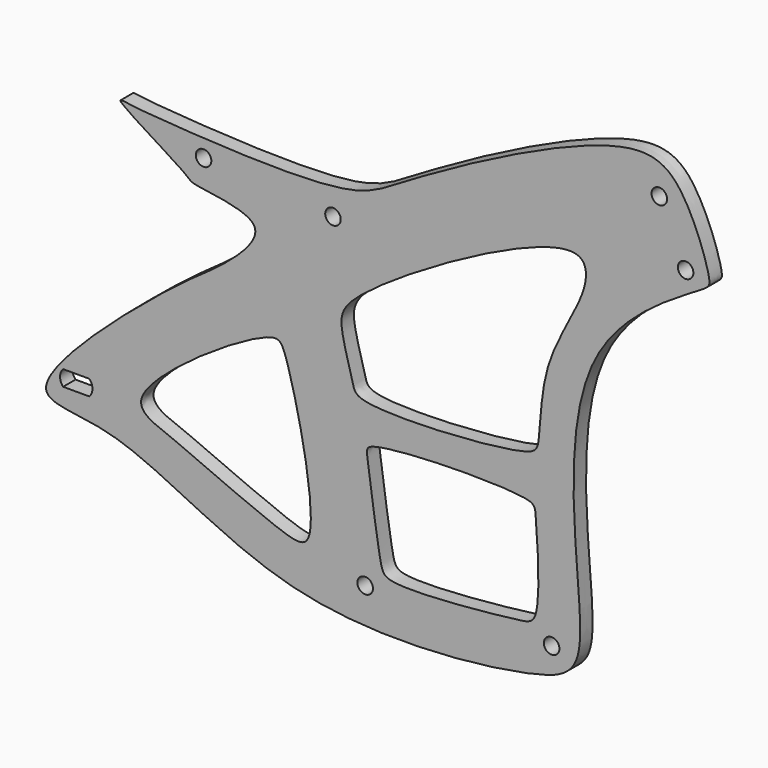
from build123d import *

# Parameters (mm, degrees)
F1_R     = 12.5
F2_DEPTH = 25


with BuildPart() as f2:
    # F1 (on Front) → F2 (new body)
    with BuildSketch(Plane.XZ):
        with BuildLine():
            add(Edge.make_bspline(
                [(-1371.9980716705, 886.4457607269), (-1392.653957445, 916.1033848298), (-1464.0667900313, 950.9482048559), (-1812.8932452518, 764.3646101194), (-1896.5860467802, 700.7433831859), (-2158.0004975891, 713.0600240908), (-2251.484814516, 720.3502820828), (-2293.9948815022, 727.956442062), (-2160.6723513816, 651.3588183992), (-2162.1496359375, 640.4543010837), (-2016.2207019242, 631.3127735069), (-2111.940512186, 537.1055042483), (-2177.6995354045, 501.5849193393), (-2472.3899192561, 247.4776096606), (-2260.6497543424, 265.873673142), (-2010.3665191234, 73.9979514065), (-1622.3940752802, 116.5657589018), (-1544.3362574694, 147.4707782041), (-1521.5919179425, 227.301972126), (-1595.9956851389, 635.8621978573), (-1330.6322746634, 757.1444590947), (-1323.2112479294, 777.8691215697), (-1349.0883350374, 853.5520681117), (-1371.9980716705, 886.4457607269)],
                knots=[0, 0, 0, 0, 0.0397656776, 0.1183212485, 0.1636663724, 0.2279070297, 0.2687660008, 0.2829436368, 0.3283687251, 0.3465637133, 0.3867828718, 0.4221940221, 0.4656385304, 0.5349593194, 0.5758864442, 0.6502695326, 0.7289837699, 0.7628035112, 0.7966417222, 0.8768378755, 0.9392773468, 0.9558953215, 1, 1, 1, 1], degree=3))
        make_face()
        with BuildLine():
            Line((-2365.9245776832, 312.5), (-2323.6282062828, 312.5))
            ThreePointArc((-2323.6282062828, 312.5), (-2318.7663879798, 300), (-2323.6282062828, 287.5))
            Line((-2323.6282062828, 287.5), (-2365.9245776832, 287.5))
            ThreePointArc((-2365.9245776832, 287.5), (-2370.7863959862, 300), (-2365.9245776832, 312.5))
        make_face(mode=Mode.SUBTRACT)
        with BuildLine():
            add(Edge.make_bspline(
                [(-2182.0895671844, 268.0950462818), (-2200.8023086205, 275.7592823317), (-2216.8910046537, 280.3595011077), (-2279.5666232427, 319.4686654424), (-2030.0235551893, 484.9613072764), (-2003.1698827631, 450.8457349337), (-1943.4709938525, 182.7479105147), (-2017.9897152424, 194.0894947076), (-2142.7916918628, 251.999692549), (-2182.0895671844, 268.0950462818)],
                knots=[0, 0, 0, 0, 0.0927703814, 0.1767432106, 0.4056156368, 0.4881111138, 0.7125361205, 0.805176655, 1, 1, 1, 1], degree=3))
        make_face(mode=Mode.SUBTRACT)
        with Locations((-1880.204897692, 164.0753404029)):
            Circle(F1_R, mode=Mode.SUBTRACT)
        with BuildLine():
            add(Edge.make_bspline(
                [(-1876.5929937363, 345.7181751728), (-1878.1228636134, 356.9108916955), (-1880.6444941552, 375.5785869413), (-1609.4259518722, 381.1525132306), (-1605.5448436488, 353.7872239445), (-1595.2625075481, 201.4078175406), (-1635.1937770468, 194.2816989644), (-1845.1396322224, 172.7473653213), (-1857.2006594656, 204.3289773047), (-1872.6101047314, 316.5788684652), (-1876.5929937363, 345.7181751728)],
                knots=[0, 0, 0, 0, 0.060948941, 0.2719500339, 0.3395811044, 0.4966485426, 0.5783495362, 0.7676111106, 0.8413245004, 1, 1, 1, 1], degree=3))
        make_face(mode=Mode.SUBTRACT)
        with Locations((-1580.4501771927, 176.2041300535)):
            Circle(F1_R, mode=Mode.SUBTRACT)
        with Locations((-2140.0866508484, 684.7329139709)):
            Circle(F1_R, mode=Mode.SUBTRACT)
        with Locations((-1931.9874048233, 669.4077849388)):
            Circle(F1_R, mode=Mode.SUBTRACT)
        with BuildLine():
            add(Edge.make_bspline(
                [(-1887.7925872803, 572.4791884422), (-1916.0414424568, 548.8539863783), (-1924.4757185389, 522.5974551714), (-1898.9721168928, 446.2656644659), (-1895.7588707645, 410.5755292349), (-1616.3697543667, 427.543354061), (-1597.2550888775, 456.055024508), (-1600.401242965, 581.3954603649), (-1517.7055996067, 691.317791282), (-1532.3459705748, 794.5803529056), (-1818.7776888693, 630.1980202389), (-1887.7925872803, 572.4791884422)],
                knots=[0, 0, 0, 0, 0.0868196883, 0.1779677675, 0.2341242234, 0.408947876, 0.4689517608, 0.5854026096, 0.7148548764, 0.7878904496, 1, 1, 1, 1], degree=3))
        make_face(mode=Mode.SUBTRACT)
        with Locations((-1365.0052775307, 778.1538935183)):
            Circle(F1_R, mode=Mode.SUBTRACT)
        with Locations((-1407.2671037048, 868.784672222)):
            Circle(F1_R, mode=Mode.SUBTRACT)
    extrude(amount=F2_DEPTH)


solid = f2.part
